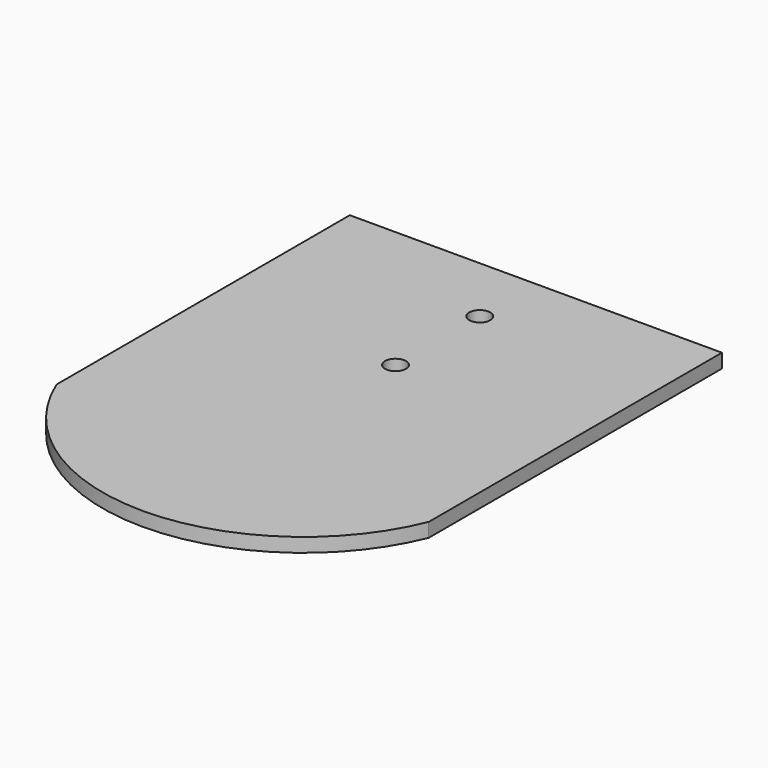
from build123d import *

# Parameters (mm, degrees)
F0_R     = 1.5
F1_DEPTH = 2


with BuildPart() as f1:
    # F0 (on Top) → F1 (new body)
    with BuildSketch(Plane.XY):
        with BuildLine():
            Line((14.090829, 16.272573), (-38.909171, 16.272573))
            Line((-38.909171, 16.272573), (-38.909171, -35.928555))
            ThreePointArc((-38.909171, -35.928555), (-12.409171, -53.727427), (14.090829, -35.928555))
            Line((14.090829, -35.928555), (14.090829, 16.272573))
        make_face()
        with Locations((-12.409171, -8.712501)):
            Circle(F0_R, mode=Mode.SUBTRACT)
        with Locations((-12.409171, 6.287499)):
            Circle(F0_R, mode=Mode.SUBTRACT)
    extrude(amount=-F1_DEPTH)


solid = f1.part
